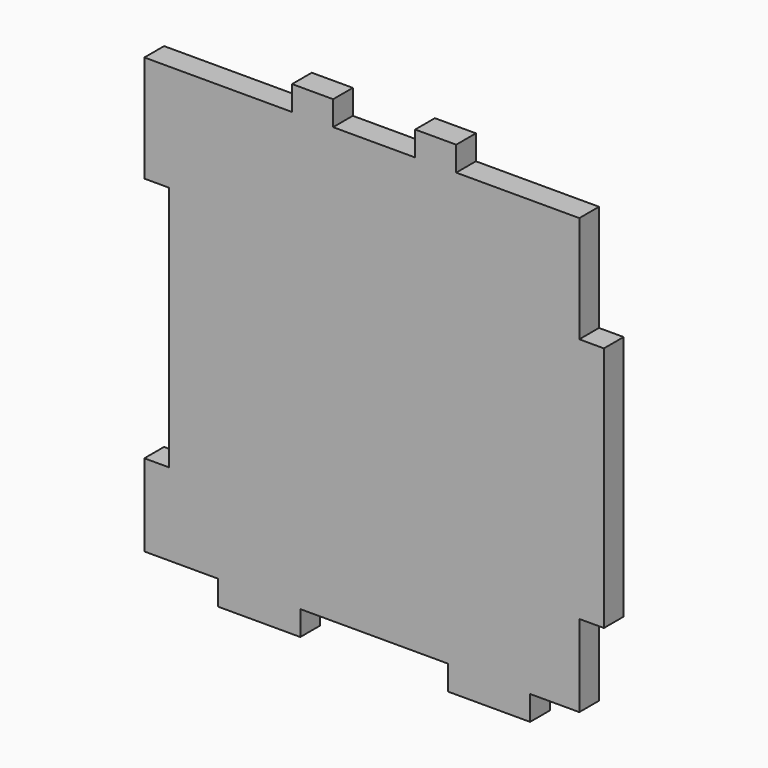
from build123d import *

# Parameters (mm, degrees)
F1_DEPTH = 3


with BuildPart() as f1:
    # F0 (on Front) → F1 (new body)
    with BuildSketch(Plane.XZ):
        Polygon((-10, 28), (-28, 28), (-28, 15), (-25, 15), (-25, -15), (-28, -15), (-28, -25), (-19, -25), (-19, -28), (-9, -28), (-9, -25), (9, -25), (9, -28), (19, -28), (19, -25), (25, -25), (25, -15), (28, -15), (28, 15), (25, 15), (25, 28), (10, 28), (10, 31), (5, 31), (5, 28), (-5, 28), (-5, 31), (-10, 31), align=None)
    extrude(amount=F1_DEPTH)


solid = f1.part
